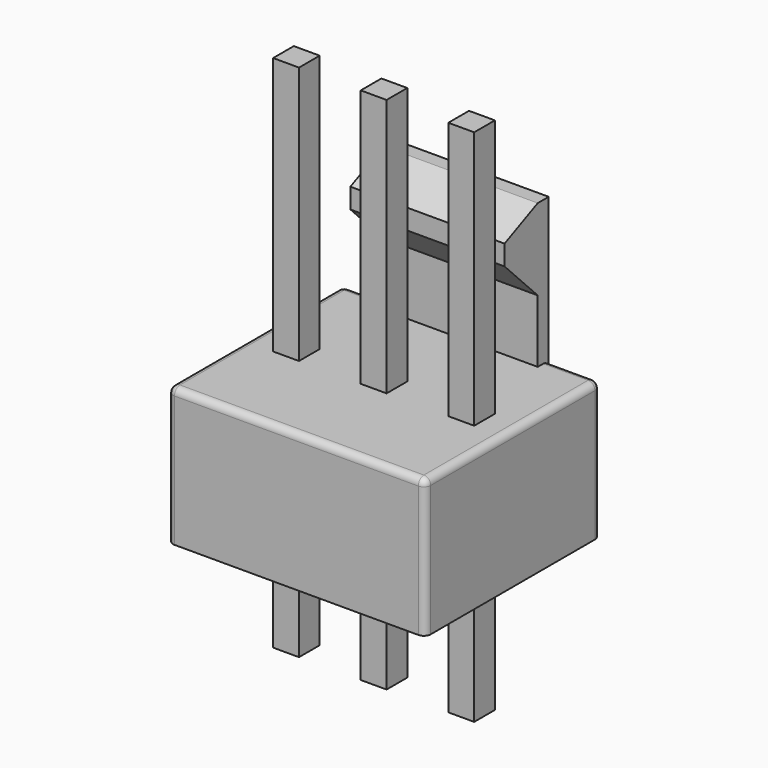
from build123d import *

# Parameters (mm, degrees)
F0_W      = 7.47
F0_H      = 6.35
F1_DEPTH  = 4
F2_W      = 1.6
F2_H      = 4.18
F3_DEPTH  = 1.5
F5_DEPTH  = 4.47
F6_W      = 1.5
F6_H      = 4.18
F7_DEPTH  = 25
F8_R      = 0.2
F9_W      = 0.75
F9_H      = 0.75
F10_DEPTH = 7.49
F11_DEPTH = 7.56


with BuildPart() as f1:
    # F0 (on Top) → F1 (new body)
    with BuildSketch(Plane.XY):
        Rectangle(F0_W, F0_H)
    extrude(amount=F1_DEPTH)

    # F2 (on face) → F3 (join)
    with BuildSketch(Plane.YZ.offset(3.735)):
        with Locations((2.375, 6.09)):
            Rectangle(F2_W, F2_H)
    extrude(amount=-F3_DEPTH)

    # F4 (on face) → F5 (join)
    with BuildSketch(Plane(origin=(2.235, 0, 0), x_dir=(0, -1, 0), z_dir=(-1, 0, 0))):
        Polygon((-3.175, 8.18), (-3.175, 4), (-2.7767212596, 4), (-2.7767212596, 5.8252010494), (-1.575, 7.0524699986), (-1.575, 7.6346360147), (-2.7767212596, 8.18), align=None)
    extrude(amount=F5_DEPTH)

    # F6 (on face) → F7 (cut)
    with BuildSketch(Plane.XZ.offset(-1.575)):
        with Locations((2.985, 6.09)):
            Rectangle(F6_W, F6_H)
    extrude(amount=-F7_DEPTH, mode=Mode.SUBTRACT)

    # F8
    f8_edges = [f1.edges().sort_by_distance(p)[0] for p in [
        (-3.735, 0, 4),
        (-2.985, 3.175, 4),
        (2.985, 3.175, 4),
        (3.735, 0, 4),
        (0, -3.175, 4),
        (-3.735, -3.175, 2),
        (3.735, -3.175, 2),
        (-3.735, 3.175, 2),
        (3.735, 3.175, 2),
    ]]
    fillet(f8_edges, radius=F8_R)


with BuildPart() as f10:
    # F9 (on face) → F10 (new body)
    with BuildSketch(Plane.XY.offset(4)):
        Rectangle(F9_W, F9_H)
    extrude(amount=F10_DEPTH)


with BuildPart() as f10b:
    # F9 (on face) → F10, piece 2 (new body)
    with BuildSketch(Plane.XY.offset(4)):
        with Locations((2.54, 0)):
            Rectangle(F9_W, F9_H)
    extrude(amount=F10_DEPTH)


with BuildPart() as f10c:
    # F9 (on face) → F10, piece 3 (new body)
    with BuildSketch(Plane.XY.offset(4)):
        with Locations((-2.54, 0)):
            Rectangle(F9_W, F9_H)
    extrude(amount=F10_DEPTH)


with BuildPart() as f11:
    # F9 (on face) → F11 (new body)
    with BuildSketch(Plane.XY.offset(4)):
        Rectangle(F9_W, F9_H)
    extrude(amount=-F11_DEPTH)


with BuildPart() as f11b:
    # F9 (on face) → F11, piece 2 (new body)
    with BuildSketch(Plane.XY.offset(4)):
        with Locations((2.54, 0)):
            Rectangle(F9_W, F9_H)
    extrude(amount=-F11_DEPTH)


with BuildPart() as f11c:
    # F9 (on face) → F11, piece 3 (new body)
    with BuildSketch(Plane.XY.offset(4)):
        with Locations((-2.54, 0)):
            Rectangle(F9_W, F9_H)
    extrude(amount=-F11_DEPTH)


solid = Compound([f1.part, f10.part, f10b.part, f10c.part, f11.part, f11b.part, f11c.part])
